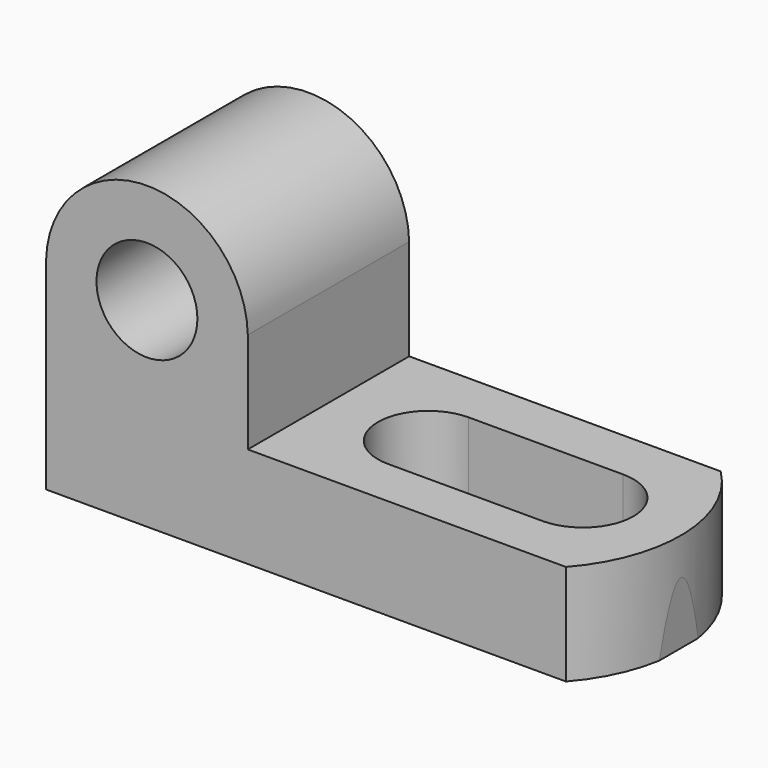
from build123d import *

# Parameters (mm, degrees)
F1_DEPTH = 25.4
F3_DEPTH = 25.401
F4_R     = 6.353022
F5_DEPTH = 25.401
F8_DEPTH = 25.4
F9_DEPTH = 25.4


with BuildPart() as f1:
    # F0 (on Front) → F1 (new body)
    with BuildSketch(Plane.XZ):
        Polygon((-20.024838, 38.1), (-45.424838, 38.1), (-45.424838, 0), (24.425162, 0), (24.827223, 12.7), (-20.024838, 12.7), align=None)
    extrude(amount=F1_DEPTH)

    # F2 (on face) → F3 (cut, through all)
    with BuildSketch(Plane.XZ.offset(25.4)):
        with BuildLine():
            ThreePointArc((-45.424838, 25.4), (-32.724838, 37.822931), (-20.024838, 25.4))
            Line((-20.024838, 25.4), (-20.024838, 38.1))
            Line((-20.024838, 38.1), (-45.424838, 38.1))
            Line((-45.424838, 38.1), (-45.424838, 25.4))
        make_face()
    extrude(amount=-F3_DEPTH, mode=Mode.SUBTRACT)

    # F4 (on face) → F5 (cut, through all)
    with BuildSketch(Plane.XZ.offset(25.4)):
        with Locations((-32.724838, 25.122931)):
            Circle(F4_R)
    extrude(amount=-F5_DEPTH, mode=Mode.SUBTRACT)

    # F7 (on face) → F8 (cut)
    with BuildSketch(Plane.XY.offset(12.7)):
        with BuildLine():
            ThreePointArc((-7.324838, -19.203114), (-2.834065, -17.342975), (-0.973926, -12.852202))
            ThreePointArc((-0.973926, -12.852202), (-2.834065, -8.361429), (-7.324838, -6.50129))
            ThreePointArc((-7.324838, -6.50129), (-13.67575, -12.852202), (-7.324838, -19.203114))
        make_face()
        with BuildLine():
            ThreePointArc((-7.324838, -6.50129), (-2.834065, -8.361429), (-0.973926, -12.852202))
            ThreePointArc((-0.973926, -12.852202), (-2.834065, -17.342975), (-7.324838, -19.203114))
            Line((-7.324838, -19.203114), (12.127223, -19.200703))
            ThreePointArc((12.127223, -19.200703), (5.77634, -12.849819), (12.127223, -6.498936))
            Line((12.127223, -6.498936), (-7.324838, -6.50129))
        make_face()
        with BuildLine():
            ThreePointArc((18.478107, -12.849819), (16.617976, -8.359066), (12.127223, -6.498936))
            ThreePointArc((12.127223, -6.498936), (5.77634, -12.849819), (12.127223, -19.200703))
            ThreePointArc((12.127223, -19.200703), (16.617976, -17.340572), (18.478107, -12.849819))
        make_face()
    extrude(amount=-F8_DEPTH, mode=Mode.SUBTRACT)

    # F7 (on face) → F9 (cut)
    with BuildSketch(Plane.XY.offset(12.7)):
        with BuildLine():
            ThreePointArc((19.19838, 0), (24.668979, -12.534609), (20.029411, -25.4))
            Line((20.029411, -25.4), (24.827223, -25.4))
            Line((24.827223, -25.4), (24.827223, 0))
            Line((24.827223, 0), (19.19838, 0))
        make_face()
    extrude(amount=-F9_DEPTH, mode=Mode.SUBTRACT)


solid = f1.part
